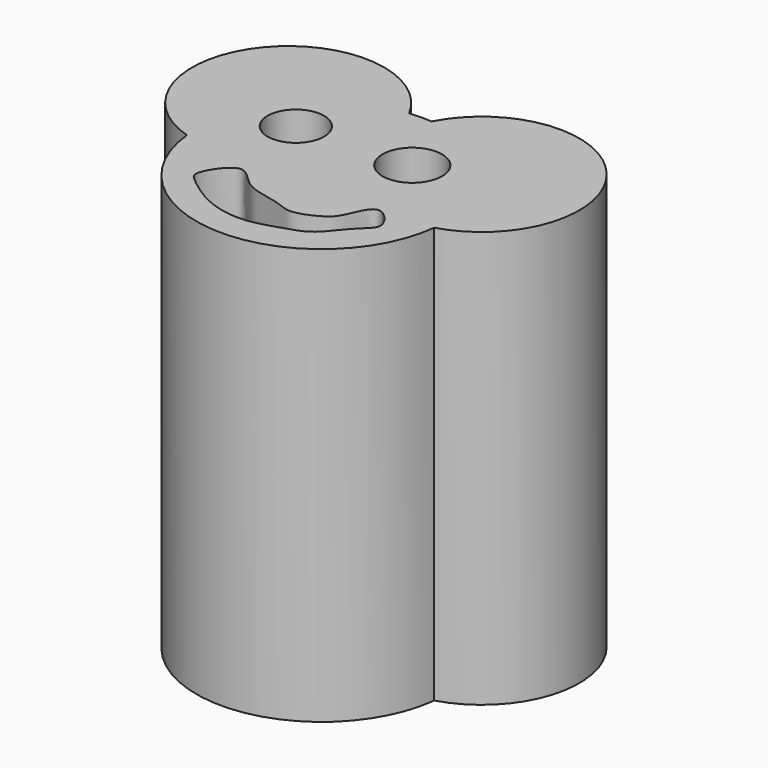
from build123d import *

# Parameters (mm, degrees)
F0_R     = 1.7231011996
F0_R_2   = 1.8163065436
F1_DEPTH = 25.4


with BuildPart() as f1:
    # F0 (on Top) → F1 (new body)
    with BuildSketch(Plane.XY):
        with BuildLine():
            ThreePointArc((-0.7285891613, 31.5953561161), (-10.4357050745, 32.5538624056), (-7.5921216037, 23.2232211252))
            ThreePointArc((-7.5921216037, 23.2232211252), (-0.0519449948, 16.3671646248), (7.5808630386, 23.1199429829))
            ThreePointArc((7.5808630386, 23.1199429829), (10.5097792981, 32.6145889512), (0.6251085936, 31.6045703473))
            ThreePointArc((0.6251085936, 31.6045703473), (-0.0519449948, 31.6300380994), (-0.7285891613, 31.5953561161))
        make_face()
        with Locations((-4.1142129339, 27.1846149117)):
            Circle(F0_R, mode=Mode.SUBTRACT)
        with BuildLine():
            add(Edge.make_bspline(
                [(-3.4770104103, 22.0869928598), (-2.9885996802, 22.1732919096), (-2.1688121082, 20.760016981), (0.0304388848, 20.6264558904), (1.0858387052, 19.9567189767), (2.6631910158, 20.638569289), (3.4426706664, 21.2607817308), (4.1101758755, 23.665486052), (5.90869138, 21.629443832), (4.6717701033, 20.8622664078), (3.4937069943, 19.0167516314), (1.9212729778, 18.6056919538), (-0.0172091849, 17.8958908597), (-2.5437022761, 18.3544392475), (-4.4132706365, 19.8105304724), (-5.0436348372, 20.4222270913), (-4.0084447966, 21.9930918054), (-3.4770104103, 22.0869928598)],
                knots=[0, 0, 0, 0, 0.0679593618, 0.1437014321, 0.2000898538, 0.2637347273, 0.3186819265, 0.3866413062, 0.4516556765, 0.507144261, 0.5829361235, 0.6477840128, 0.7209498274, 0.8038835304, 0.8823562479, 0.9260541599, 1, 1, 1, 1], degree=3))
        make_face(mode=Mode.SUBTRACT)
        with Locations((2.7357134968, 27.5032147765)):
            Circle(F0_R_2, mode=Mode.SUBTRACT)
    extrude(amount=F1_DEPTH)


solid = f1.part
